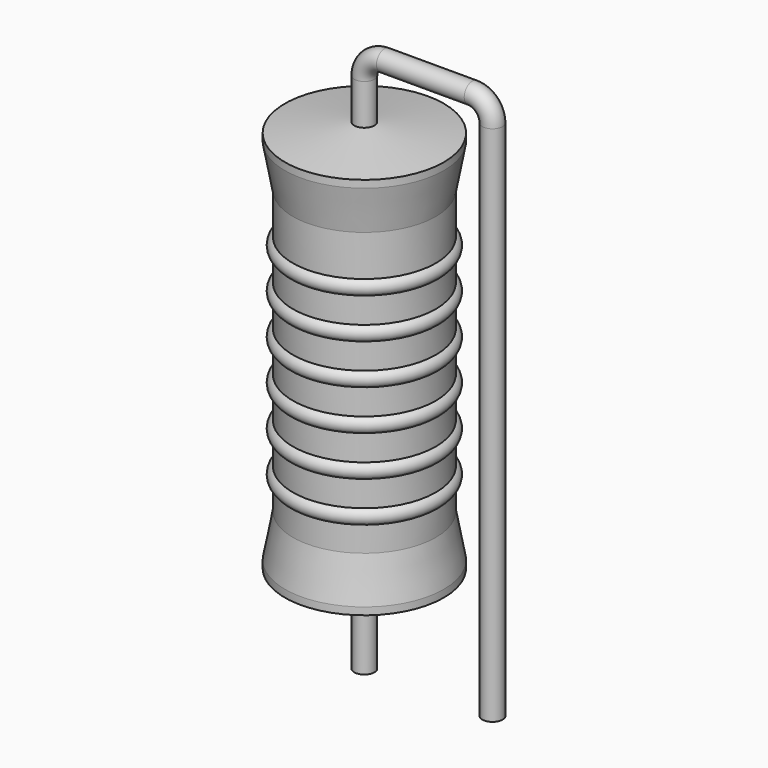
from build123d import *

# Parameters (mm, degrees)
SKETCH_R = 0.4


with BuildPart() as revolution:
    # Sketch002 → Revolution (revolve)
    with BuildSketch(Plane.XZ):
        Polygon((0, 0.1), (0, 16.1), (0.3, 16.1), (3.15, 15.7), (3.15, 15.4075), (2.835, 13.7), (2.835, 2.5), (3.15, 0.7925), (3.15, 0.5), (0.3, 0.1), align=None)
    revolve(axis=Axis((0, 0, 0), (0, 0, 1)))


with BuildPart() as sweep_body:
    # Sweep: sweep along a path in Sketch001
    with BuildLine(Plane.XZ) as sweep_path:
        Line((0, -3), (0, 17.7))
        ThreePointArc((0, 17.7), (0.234311, 18.265681), (0.799989, 18.5))
        Line((0.799989, 18.5), (4.28, 18.5))
        ThreePointArc((4.28, 18.5), (4.845685, 18.265685), (5.08, 17.7))
        Line((5.08, 17.7), (5.08, -3))
    # Sketch → Sweep (sweep)
    with BuildSketch(Plane.XY.offset(-2)):
        Circle(SKETCH_R)
    sweep(path=sweep_path.line)


with BuildPart() as obj1:
    # Sketch003 → Revolution001 (revolve)
    with BuildSketch(Plane.XZ):
        with BuildLine():
            Line((2.52, 13.07), (2.52, 2.5))
            Line((2.52, 2.5), (2.709, 2.5))
            Line((2.709, 2.5), (2.709, 3.47))
            ThreePointArc((2.709, 3.47), (3.024, 3.785), (2.709, 4.1))
            Line((2.709, 4.1), (2.709, 5.07))
            ThreePointArc((2.709, 5.07), (3.024, 5.385), (2.709, 5.7))
            Line((2.709, 5.7), (2.709, 6.67))
            ThreePointArc((2.709, 6.67), (3.024, 6.985), (2.709, 7.3))
            Line((2.709, 7.3), (2.709, 8.27))
            ThreePointArc((2.709, 8.27), (3.024, 8.585), (2.709, 8.9))
            Line((2.709, 8.9), (2.709, 9.87))
            ThreePointArc((2.709, 9.87), (3.024, 10.185), (2.709, 10.5))
            Line((2.709, 10.5), (2.709, 11.47))
            ThreePointArc((2.709, 11.47), (3.024, 11.785), (2.709, 12.1))
            Line((2.709, 13.07), (2.709, 12.1))
            Line((2.52, 13.07), (2.709, 13.07))
        make_face()
    revolve(axis=Axis((0, 0, 0), (0, 0, 1)))

    # obj1: union Revolution, Sweep body
    add(revolution.part)
    add(sweep_body.part)


solid = obj1.part
